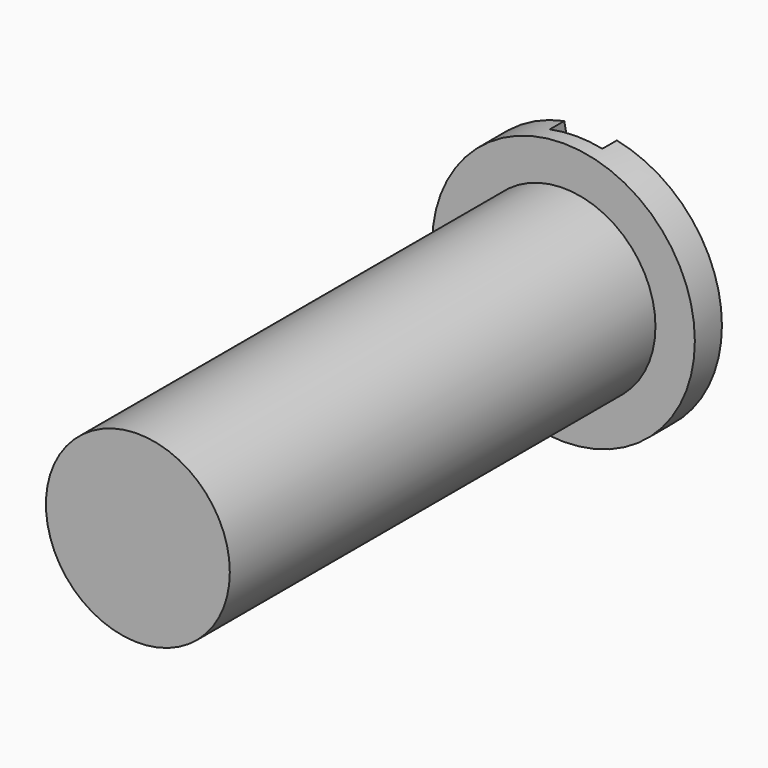
from build123d import *

# Parameters (mm, degrees)
F0_W     = 0.2
F0_H     = 0.25
F2_DEPTH = 12.5


with BuildPart() as f1:
    # F0 (on Top) → F1 (revolve)
    with BuildSketch(Plane.XY):
        with BuildLine():
            Line((0, 4.17), (0, 0))
            Line((0, 0), (0.7, 0))
            Line((0.7, 0), (0.7, 4.05))
            Line((0.7, 4.05), (1, 4.05))
            Line((1, 4.05), (1, 4.307482))
            ThreePointArc((1, 4.307482), (0.602428, 4.379493), (0.2, 4.415553))
            Line((0.2, 4.415553), (0.2, 4.17))
            Line((0.2, 4.17), (0, 4.17))
        make_face()
    revolve(axis=Axis((0, 2.21, 0), (0, -1, 0)))

    # F0 (on Top) → F2 (cut, symmetric)
    with BuildSketch(Plane.XY):
        with BuildLine():
            Line((0, 4.42), (0, 4.17))
            Line((0, 4.17), (0.2, 4.17))
            Line((0.2, 4.17), (0.2, 4.415553))
            ThreePointArc((0.2, 4.415553), (0.100025, 4.418888), (0, 4.42))
        make_face()
        with Locations((-0.1, 4.295)):
            Rectangle(F0_W, F0_H)
    extrude(amount=F2_DEPTH, both=True, mode=Mode.SUBTRACT)


solid = f1.part
